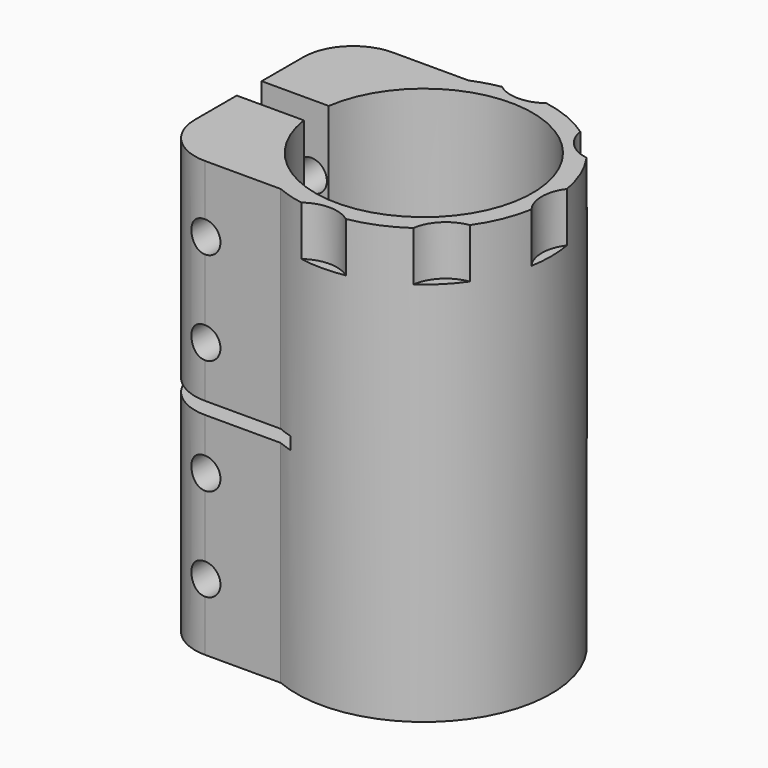
from build123d import *

# Parameters (mm, degrees)
F1_DEPTH       = 35
F3_D           = 5
F3_START       = 1.7550021
F3_CBORE_D     = 10
F3_CBORE_DEPTH = 8
F4_W           = 22.4
F4_H           = 2
F5_DEPTH       = 25
F7_DEPTH       = 8


with BuildPart() as f1:
    # F0 (on Top) → F1 (new body, symmetric)
    with BuildSketch(Plane.XY):
        with BuildLine():
            ThreePointArc((-17.3192642082, 2.5086026559), (17.5, 0), (-17.3192642082, -2.5086026559))
            Line((-17.3192642082, -2.5086026559), (-28.1192642082, -2.5086026559))
            Line((-28.1192642082, -2.5086026559), (-28.1192642082, -10.9086026559))
            ThreePointArc((-28.1192642082, -10.9086026559), (-25.7761184577, -16.5654569054), (-20.1192642082, -18.9086026559))
            Line((-20.1192642082, -18.9086026559), (-7.9192642082, -18.9086026559))
            ThreePointArc((-7.9192642082, -18.9086026559), (20.5, 0), (-7.9192642082, 18.9086026559))
            Line((-7.9192642082, 18.9086026559), (-20.1192642082, 18.9086026559))
            ThreePointArc((-20.1192642082, 18.9086026559), (-25.7761184577, 16.5654569054), (-28.1192642082, 10.9086026559))
            Line((-28.1192642082, 10.9086026559), (-28.1192642082, 2.5086026559))
            Line((-28.1192642082, 2.5086026559), (-17.3192642082, 2.5086026559))
        make_face()
    extrude(amount=F1_DEPTH, both=True)

    # F3 (through all)
    # its depths count from where the whole tool has entered the part; down to there all is cleared
    with Locations(Plane(origin=(0, 18.9086026559, 0), x_dir=(-1, 0, 0), z_dir=(0, 1, 0)).offset(-F3_START)):
        with Locations((20.1192642082, -24.25), (20.1192642082, -9.25), (20.1192642082, 9.25), (20.1192642082, 24.25)):
            CounterBoreHole(F3_D / 2, F3_CBORE_D / 2, F3_CBORE_DEPTH)

    # F4 (on Front) → F5 (cut, symmetric)
    with BuildSketch(Plane.XZ):
        with Locations((-16.9192642082, 0)):
            Rectangle(F4_W, F4_H)
    extrude(amount=F5_DEPTH, both=True, mode=Mode.SUBTRACT)

    # F6 (on face) → F7 (cut)
    with BuildSketch(Plane.XY.offset(35)):
        with BuildLine():
            ThreePointArc((-3.5799127084, 20.185), (0, 19), (3.5799127084, 20.185))
            ThreePointArc((3.5799127084, 20.185), (0, 20.5), (-3.5799127084, 20.185))
        make_face()
        with BuildLine():
            ThreePointArc((11.7415698261, 16.8043309304), (13.4350288425, 13.4350288425), (16.8043309304, 11.7415698261))
            ThreePointArc((16.8043309304, 11.7415698261), (14.4956890143, 14.4956890143), (11.7415698261, 16.8043309304))
        make_face()
        with BuildLine():
            ThreePointArc((-3.5799127084, 20.185), (0, 20.5), (3.5799127084, 20.185))
            ThreePointArc((3.5799127084, 20.185), (5.3609456372, 22.305512688), (6, 25))
            ThreePointArc((6, 25), (-2.694487312, 30.3609456372), (-3.5799127084, 20.185))
        make_face()
        with BuildLine():
            ThreePointArc((11.7415698261, 16.8043309304), (14.4956890143, 14.4956890143), (16.8043309304, 11.7415698261))
            ThreePointArc((16.8043309304, 11.7415698261), (21.5994018258, 13.1367427743), (23.6776695297, 17.6776695297))
            ThreePointArc((23.6776695297, 17.6776695297), (17.2398329286, 23.6616731318), (11.7415698261, 16.8043309304))
        make_face()
        with BuildLine():
            ThreePointArc((20.185, 3.5799127084), (20.5, 0), (20.185, -3.5799127084))
            ThreePointArc((20.185, -3.5799127084), (26.8854707635, -5.6960512638), (31, 0))
            ThreePointArc((31, 0), (26.8854707635, 5.6960512638), (20.185, 3.5799127084))
        make_face()
        with BuildLine():
            ThreePointArc((20.185, 3.5799127084), (19, 0), (20.185, -3.5799127084))
            ThreePointArc((20.185, -3.5799127084), (20.5, 0), (20.185, 3.5799127084))
        make_face()
        with BuildLine():
            ThreePointArc((16.8043309304, -11.7415698261), (14.4956890143, -14.4956890143), (11.7415698261, -16.8043309304))
            ThreePointArc((11.7415698261, -16.8043309304), (17.2398329286, -23.6616731318), (23.6776695297, -17.6776695297))
            ThreePointArc((23.6776695297, -17.6776695297), (21.5994018258, -13.1367427743), (16.8043309304, -11.7415698261))
        make_face()
        with BuildLine():
            ThreePointArc((-3.5799127084, -20.185), (-2.694487312, -30.3609456372), (6, -25))
            ThreePointArc((6, -25), (5.3609456372, -22.305512688), (3.5799127084, -20.185))
            ThreePointArc((3.5799127084, -20.185), (0, -20.5), (-3.5799127084, -20.185))
        make_face()
        with BuildLine():
            ThreePointArc((16.8043309304, -11.7415698261), (13.4350288425, -13.4350288425), (11.7415698261, -16.8043309304))
            ThreePointArc((11.7415698261, -16.8043309304), (14.4956890143, -14.4956890143), (16.8043309304, -11.7415698261))
        make_face()
        with BuildLine():
            ThreePointArc((-3.5799127084, -20.185), (0, -20.5), (3.5799127084, -20.185))
            ThreePointArc((3.5799127084, -20.185), (0, -19), (-3.5799127084, -20.185))
        make_face()
    extrude(amount=-F7_DEPTH, mode=Mode.SUBTRACT)


solid = f1.part
